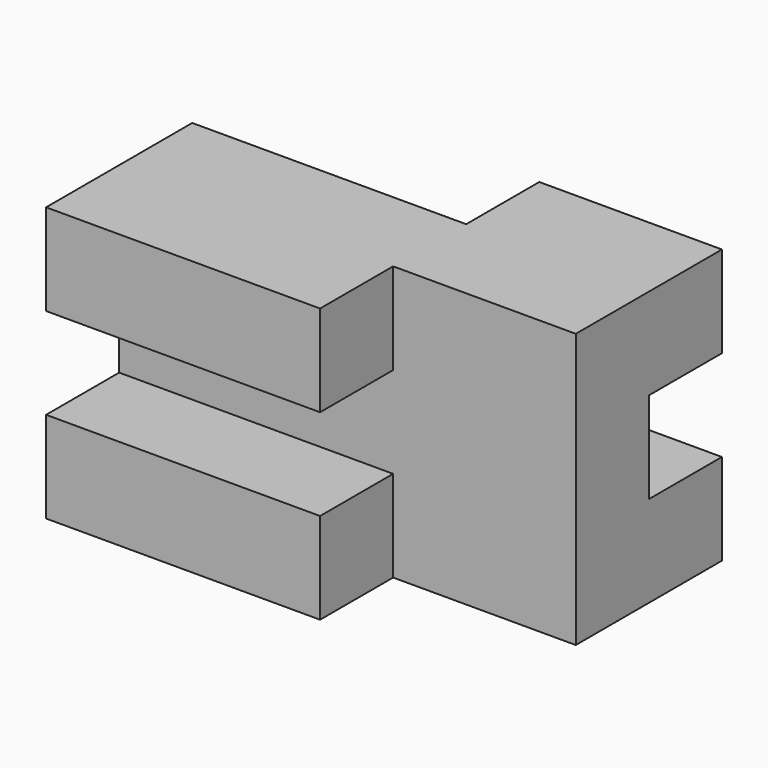
from build123d import *

# Parameters (mm, degrees)
F0_W     = 100
F0_H     = 60
F1_DEPTH = 60
F2_W     = 40
F2_H     = 20
F3_DEPTH = 60.001
F4_W     = 20
F4_H     = 20
F5_DEPTH = 100.001
F6_W     = 60
F6_H     = 20
F7_DEPTH = 60.001
F8_W     = 20
F8_H     = 20
F9_DEPTH = 100.001


with BuildPart() as f1:
    # F0 (on Top) → F1 (new body)
    with BuildSketch(Plane.XY):
        with Locations((50, -30)):
            Rectangle(F0_W, F0_H)
    extrude(amount=F1_DEPTH)

    # F2 (on face) → F3 (cut, through all)
    with BuildSketch(Plane(origin=(0, 0, 0), x_dir=(1, 0, 0), z_dir=(0, 0, -1))):
        with Locations((80, 50)):
            Rectangle(F2_W, F2_H)
    extrude(amount=-F3_DEPTH, mode=Mode.SUBTRACT)

    # F4 (on face) → F5 (cut, through all)
    with BuildSketch(Plane.YZ.offset(100)):
        with Locations((-10, 30)):
            Rectangle(F4_W, F4_H)
    extrude(amount=-F5_DEPTH, mode=Mode.SUBTRACT)

    # F6 (on face) → F7 (cut, through all)
    with BuildSketch(Plane.XY.offset(60)):
        with Locations((30, -10)):
            Rectangle(F6_W, F6_H)
    extrude(amount=-F7_DEPTH, mode=Mode.SUBTRACT)

    # F8 (on face) → F9 (cut, through all)
    with BuildSketch(Plane(origin=(0, 0, 0), x_dir=(0, -1, 0), z_dir=(-1, 0, 0))):
        with Locations((50, 30)):
            Rectangle(F8_W, F8_H)
    extrude(amount=-F9_DEPTH, mode=Mode.SUBTRACT)


solid = f1.part
